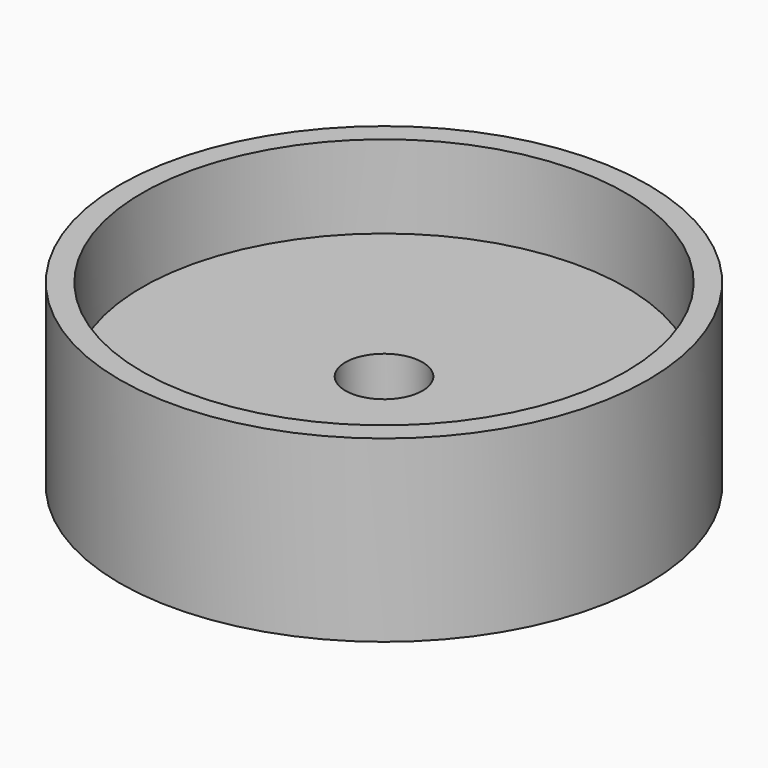
from build123d import *

# Parameters (mm, degrees)
F0_R     = 43.688
F1_DEPTH = 29.6164
F2_R     = 40.005
F3_DEPTH = 13.716
F4_R     = 6.3754
F5_DEPTH = 15.9014


with BuildPart() as f1:
    # F0 (on Top) → F1 (new body)
    with BuildSketch(Plane.XY):
        Circle(F0_R)
    extrude(amount=F1_DEPTH)

    # F2 (on face) → F3 (cut)
    with BuildSketch(Plane.XY.offset(29.6164)):
        Circle(F2_R)
    extrude(amount=-F3_DEPTH, mode=Mode.SUBTRACT)

    # F4 (on face) → F5 (cut, through all)
    with BuildSketch(Plane.XY.offset(15.9004)):
        Circle(F4_R)
    extrude(amount=-F5_DEPTH, mode=Mode.SUBTRACT)


solid = f1.part
